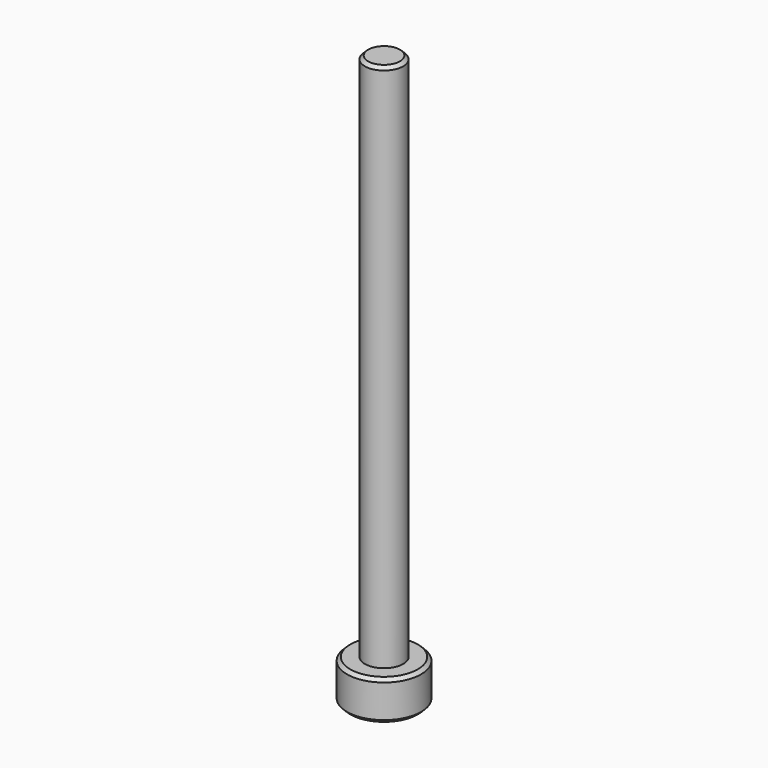
from build123d import *

# Parameters (mm, degrees)
SKETCH_R     = 2.8
PAD_DEPTH    = 3
SKETCH001_R  = 1.45
PAD001_DEPTH = 40
POCKET_DEPTH = 2
CHAMFER_SIZE = 0.25


with BuildPart() as part:
    # Sketch → Pad (new body)
    with BuildSketch(Plane.XY):
        Circle(SKETCH_R)
    extrude(amount=PAD_DEPTH)

    # Sketch001 (on Face3 of Pad) → Pad001 (join)
    with BuildSketch(Plane.XY.offset(3)):
        Circle(SKETCH001_R)
    extrude(amount=PAD001_DEPTH)

    # Sketch002 (on Face2 of Pad001) → Pocket (cut)
    with BuildSketch(Plane(origin=(0, 0, 0), x_dir=(1, 0, 0), z_dir=(0, 0, -1))):
        Polygon((1.259542, 0.814588), (-0.075682, 1.49809), (-1.335225, 0.683502), (-1.259542, -0.814588), (0.075682, -1.49809), (1.335225, -0.683502), align=None)
    extrude(amount=-POCKET_DEPTH, mode=Mode.SUBTRACT)

    # Chamfer
    chamfer_edges = [part.edges().sort_by_distance(p)[0] for p in [
        (-2.8, 0, 3),
        (-2.8, 0, 0),
        (1.297384, -0.065543, 0),
        (0.705454, 1.090796, 0),
        (-0.59193, 1.156339, 0),
        (-1.297384, 0.065543, 0),
        (-0.705454, -1.090796, 0),
        (0.59193, -1.156339, 0),
        (-1.45, 0, 43),
    ]]
    chamfer(chamfer_edges, length=CHAMFER_SIZE)


solid = part.part
